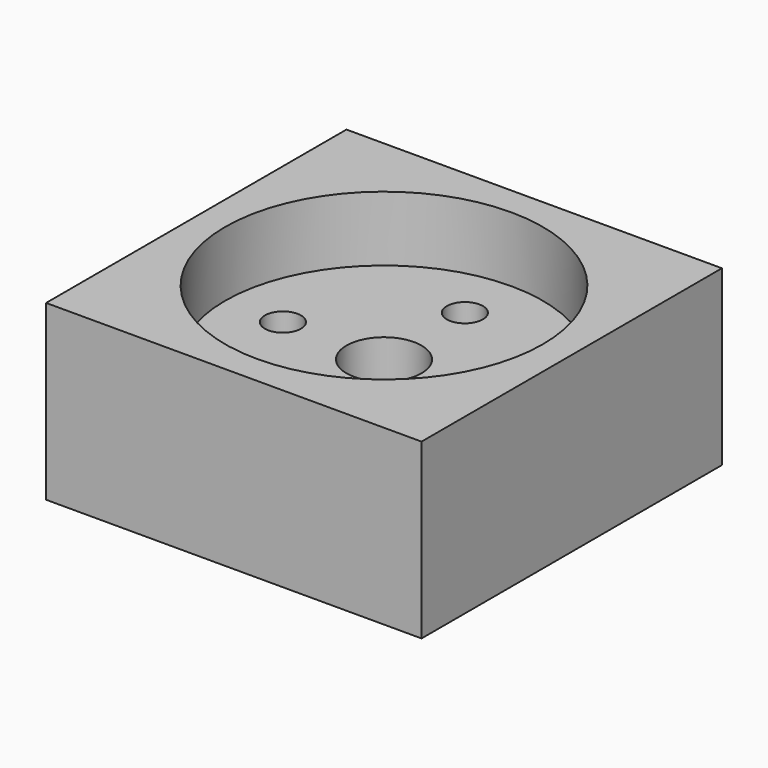
from build123d import *

# Parameters (mm, degrees)
CYLINDER077_R             = 1.25
CYLINDER077_DEPTH         = 15
CYLINDER078_R             = 1.25
CYLINDER078_DEPTH         = 15
CYLINDER081_R             = 1.25
CYLINDER081_DEPTH         = 15
CYLINDER082_R             = 1.25
CYLINDER082_DEPTH         = 15
FUSION041_PLACEMENT_ANGLE = 90
CYLINDER079_R             = 11
CYLINDER079_DEPTH         = 4.5
CYLINDER080_R             = 2.6
CYLINDER080_DEPTH         = 12
BOX006_W                  = 26
BOX006_H                  = 26
BOX006_DEPTH              = 12
CUT014015_PLACEMENT_ANGLE = 180


with BuildPart() as cylinder077:
    # Cylinder077 → Cylinder077 (new body)
    with BuildSketch(Plane(origin=(7, 0, 0), x_dir=(1, 0, 0), z_dir=(0, 0, 1))):
        Circle(CYLINDER077_R)
    extrude(amount=CYLINDER077_DEPTH)


with BuildPart() as fusion042:
    # Cylinder078 → Cylinder078 (new body)
    with BuildSketch(Plane(origin=(-7, 0, 0), x_dir=(1, 0, 0), z_dir=(0, 0, 1))):
        Circle(CYLINDER078_R)
    extrude(amount=CYLINDER078_DEPTH)

    # Fusion042: union Cylinder077
    add(cylinder077.part)


with BuildPart() as cylinder081:
    # Cylinder081 → Cylinder081 (new body)
    with BuildSketch(Plane(origin=(7, 0, 0), x_dir=(1, 0, 0), z_dir=(0, 0, 1))):
        Circle(CYLINDER081_R)
    extrude(amount=CYLINDER081_DEPTH)


with BuildPart() as fusion043:
    # Cylinder082 → Cylinder082 (new body)
    with BuildSketch(Plane(origin=(-7, 0, 0), x_dir=(1, 0, 0), z_dir=(0, 0, 1))):
        Circle(CYLINDER082_R)
    extrude(amount=CYLINDER082_DEPTH)

    # Fusion041: union Cylinder081
    add(cylinder081.part)


with BuildPart() as fusion043_1:
    # Fusion041 placement: moved
    add(fusion043.part.rotate(Axis((0, 0, 0), (0, 0, 1)), FUSION041_PLACEMENT_ANGLE))

    # Fusion043: union Fusion042
    add(fusion042.part)


with BuildPart() as fusion043_2:
    # Fusion043 placement: moved
    add(fusion043_1.part.moved(Location((0, 0, -3))))


with BuildPart() as cylinder079:
    # Cylinder079 → Cylinder079 (new body)
    with BuildSketch(Plane.XY):
        Circle(CYLINDER079_R)
    extrude(amount=CYLINDER079_DEPTH)


with BuildPart() as fusion040:
    # Cylinder080 → Cylinder080 (new body)
    with BuildSketch(Plane.XY):
        Circle(CYLINDER080_R)
    extrude(amount=CYLINDER080_DEPTH)

    # Fusion040: union Cylinder079
    add(cylinder079.part)


with BuildPart() as diff_lock_holes:
    # Box006 → Box006 (new body)
    with BuildSketch(Plane(origin=(-13, -13, 0), x_dir=(1, 0, 0), z_dir=(0, 0, 1))):
        with Locations((13, 13)):
            Rectangle(BOX006_W, BOX006_H)
    extrude(amount=BOX006_DEPTH)

    # Cut014014: cut Fusion040
    add(fusion040.part, mode=Mode.SUBTRACT)

    # Cut014015: cut Fusion043
    add(fusion043_2.part, mode=Mode.SUBTRACT)


with BuildPart() as diff_lock_holes_1:
    # Cut014015 placement: moved
    add(diff_lock_holes.part.moved(Location((0, 0, 31))).rotate(Axis((0, 0, 31), (0, 1, 0)), CUT014015_PLACEMENT_ANGLE))


solid = diff_lock_holes_1.part
